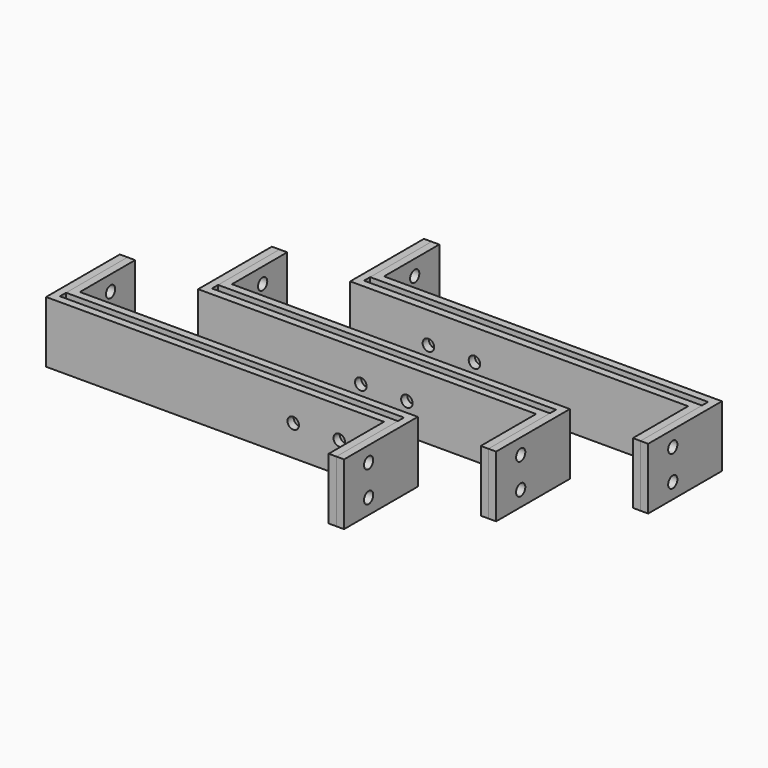
from build123d import *

# Parameters (mm, degrees)
F1_DEPTH = 25.4
F3_DEPTH = 25.4
F4_R     = 4.7625
F5_DEPTH = 215.901
F6_R     = 4.7625
F7_DEPTH = 152.4
F8_R     = 4.7625
F9_DEPTH = 152.4


with BuildPart() as f1:
    # F0 (on Top) → F1 (new body, symmetric)
    with BuildSketch(Plane.XY):
        Polygon((-279.4, 63.5), (-279.4, 133.35), (-285.75, 133.35), (-285.75, 57.15), (-6.35, 57.15), (-6.35, 0), (0, 0), (0, 63.5), align=None)
        Polygon((-209.55, 133.35), (-209.55, 203.2), (-215.9, 203.2), (-215.9, 127), (63.5, 127), (63.5, 69.85), (69.85, 69.85), (69.85, 133.35), align=None)
        Polygon((-139.7, 203.2), (-139.7, 273.05), (-146.05, 273.05), (-146.05, 196.85), (133.35, 196.85), (133.35, 139.7), (139.7, 139.7), (139.7, 203.2), align=None)
    extrude(amount=F1_DEPTH, both=True)


with BuildPart() as f3:
    # F2 (on Top) → F3 (new body, symmetric)
    with BuildSketch(Plane.XY):
        Polygon((-273.05, 76.2), (-273.05, 133.35), (-279.4, 133.35), (-279.4, 69.85), (0, 69.85), (0, 0), (6.35, 0), (6.35, 76.2), align=None)
        Polygon((-203.2, 146.05), (-203.2, 203.2), (-209.55, 203.2), (-209.55, 139.7), (69.85, 139.7), (69.85, 69.85), (76.2, 69.85), (76.2, 146.05), align=None)
        Polygon((-133.35, 215.9), (-133.35, 273.05), (-139.7, 273.05), (-139.7, 209.55), (139.7, 209.55), (139.7, 139.7), (146.05, 139.7), (146.05, 215.9), align=None)
    extrude(amount=F3_DEPTH, both=True)


with BuildPart() as f5_tool:
    # F4 (on face) → F5 (new body, through all)
    with BuildSketch(Plane.XZ.offset(-57.15)):
        with Locations((-43.307, 0)):
            Circle(F4_R)
        with Locations((-81.407, 0)):
            Circle(F4_R)
    extrude(amount=-F5_DEPTH)


with BuildPart() as f1_1:
    add(f1.part)

    # F5: cut by f5_tool
    add(f5_tool.part, mode=Mode.SUBTRACT)


with BuildPart() as f3_1:
    add(f3.part)

    # F5: cut by f5_tool
    add(f5_tool.part, mode=Mode.SUBTRACT)


with BuildPart() as f7_tool:
    # F6 (on face) → F7 (new body, through all)
    with BuildSketch(Plane(origin=(-285.75, 0, 0), x_dir=(0, -1, 0), z_dir=(-1, 0, 0))):
        with Locations((-107.95, 12.7)):
            Circle(F6_R)
        with Locations((-107.95, -12.7)):
            Circle(F6_R)
        with Locations((-177.8, 12.7)):
            Circle(F6_R)
        with Locations((-177.8, -12.7)):
            Circle(F6_R)
        with Locations((-247.65, 12.7)):
            Circle(F6_R)
        with Locations((-247.65, -12.7)):
            Circle(F6_R)
    extrude(amount=-F7_DEPTH)


with BuildPart() as f1_2:
    add(f1_1.part)

    # F7: cut by f7_tool
    add(f7_tool.part, mode=Mode.SUBTRACT)


with BuildPart() as f3_2:
    add(f3_1.part)

    # F7: cut by f7_tool
    add(f7_tool.part, mode=Mode.SUBTRACT)


with BuildPart() as f9_tool:
    # F8 (on face) → F9 (new body, through all)
    with BuildSketch(Plane.YZ.offset(146.05)):
        with Locations((165.1, 12.7)):
            Circle(F8_R)
        with Locations((165.1, -12.7)):
            Circle(F8_R)
        with Locations((95.25, 12.7)):
            Circle(F8_R)
        with Locations((95.25, -12.7)):
            Circle(F8_R)
        with Locations((25.4, 12.7)):
            Circle(F8_R)
        with Locations((25.4, -12.7)):
            Circle(F8_R)
    extrude(amount=-F9_DEPTH)


with BuildPart() as f1_3:
    add(f1_2.part)

    # F9: cut by f9_tool
    add(f9_tool.part, mode=Mode.SUBTRACT)


with BuildPart() as f3_3:
    add(f3_2.part)

    # F9: cut by f9_tool
    add(f9_tool.part, mode=Mode.SUBTRACT)


solid = Compound([f1_3.part, f3_3.part])
